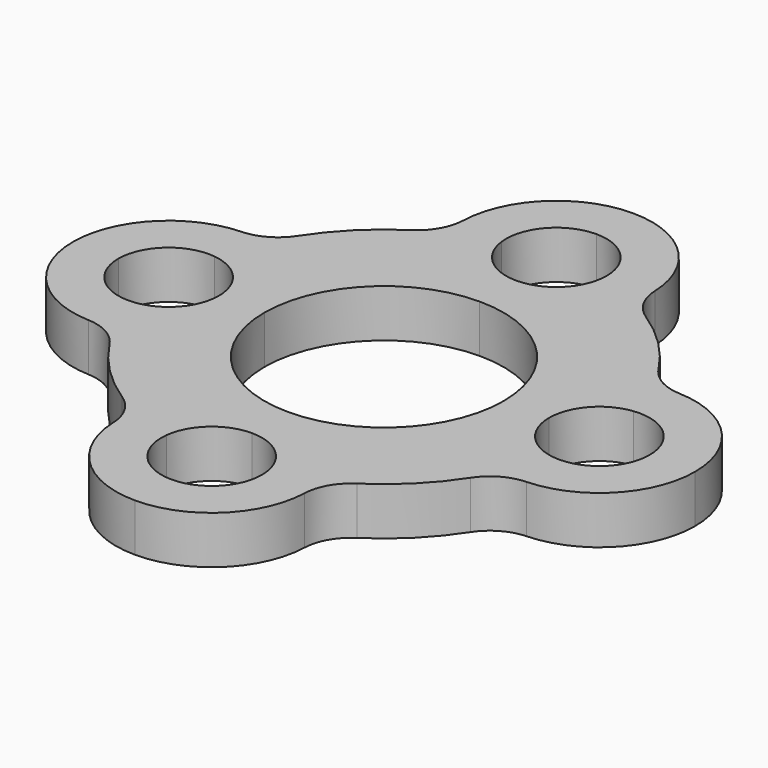
from build123d import *

# Parameters (mm, degrees)
F1_DEPTH = 1
F2_R     = 1


with BuildPart() as f1:
    # F0 (on Top) → F1 (new body)
    with BuildSketch(Plane.XY):
        with BuildLine():
            ThreePointArc((-2.5, 0), (-1.767766953, 1.767766953), (0, 2.5))
            ThreePointArc((0, 2.5), (-1.2472191289, 2.9365280801), (-1.9499920861, 4.0555555556))
            ThreePointArc((-1.9499920861, 4.0555555556), (-3.1819805153, 3.1819805153), (-4.0555555556, 1.9499920861))
            ThreePointArc((-4.0555555556, 1.9499920861), (-2.9365280801, 1.2472191289), (-2.5, 0))
        make_face()
        with BuildLine():
            Line((-3.45, 0), (-2.5, 0))
            ThreePointArc((-2.5, 0), (-2.9365280801, 1.2472191289), (-4.0555555556, 1.9499920861))
            ThreePointArc((-4.0555555556, 1.9499920861), (-4.2408539714, 1.5050440503), (-4.3775, 1.0428296841))
            ThreePointArc((-4.3775, 1.0428296841), (-3.715422088, 0.6978090713), (-3.45, 0))
        make_face()
        with BuildLine():
            ThreePointArc((-4.0555555556, -1.9499920861), (-2.9365280801, -1.2472191289), (-2.5, 0))
            Line((-2.5, 0), (-3.45, 0))
            ThreePointArc((-3.45, 0), (-3.715422088, -0.6978090713), (-4.3775, -1.0428296841))
            ThreePointArc((-4.3775, -1.0428296841), (-4.2408539714, -1.5050440503), (-4.0555555556, -1.9499920861))
        make_face()
        with BuildLine():
            ThreePointArc((-1.9499920861, -4.0555555556), (-1.2472191276, -2.936528079), (3.3e-09, -2.5))
            ThreePointArc((3.3e-09, -2.5), (-1.7677669518, -1.7677669542), (-2.5, 0))
            ThreePointArc((-2.5, 0), (-2.9365280801, -1.2472191289), (-4.0555555556, -1.9499920861))
            ThreePointArc((-4.0555555556, -1.9499920861), (-3.1819805153, -3.1819805153), (-1.9499920861, -4.0555555556))
        make_face()
        with BuildLine():
            ThreePointArc((4.0555555556, -1.9499920861), (2.9365280801, -1.2472191289), (2.5, 0))
            ThreePointArc((2.5, 0), (1.7677669542, -1.7677669518), (3.3e-09, -2.5))
            ThreePointArc((3.3e-09, -2.5), (1.2472191302, -2.9365280811), (1.9499920861, -4.0555555556))
            ThreePointArc((1.9499920861, -4.0555555556), (3.1819805153, -3.1819805153), (4.0555555556, -1.9499920861))
        make_face()
        with BuildLine():
            Line((3.45, 0), (2.5, 0))
            ThreePointArc((2.5, 0), (2.9365280801, -1.2472191289), (4.0555555556, -1.9499920861))
            ThreePointArc((4.0555555556, -1.9499920861), (4.2408539714, -1.5050440503), (4.3775, -1.0428296841))
            ThreePointArc((4.3775, -1.0428296841), (3.715422088, -0.6978090713), (3.45, 0))
        make_face()
        with BuildLine():
            ThreePointArc((4.0555555556, 1.9499920861), (2.9365280801, 1.2472191289), (2.5, 0))
            Line((2.5, 0), (3.45, 0))
            ThreePointArc((3.45, 0), (3.715422088, 0.6978090713), (4.3775, 1.0428296841))
            ThreePointArc((4.3775, 1.0428296841), (4.2408539714, 1.5050440503), (4.0555555556, 1.9499920861))
        make_face()
        with BuildLine():
            ThreePointArc((0, 2.5), (1.767766953, 1.767766953), (2.5, 0))
            ThreePointArc((2.5, 0), (2.9365280801, 1.2472191289), (4.0555555556, 1.9499920861))
            ThreePointArc((4.0555555556, 1.9499920861), (3.1819805153, 3.1819805153), (1.9499920861, 4.0555555556))
            ThreePointArc((1.9499920861, 4.0555555556), (1.2472191289, 2.9365280801), (0, 2.5))
        make_face()
        with BuildLine():
            Line((0, 3.45), (0, 2.5))
            ThreePointArc((0, 2.5), (1.2472191289, 2.9365280801), (1.9499920861, 4.0555555556))
            ThreePointArc((1.9499920861, 4.0555555556), (1.5050440503, 4.2408539714), (1.0428296841, 4.3775))
            ThreePointArc((1.0428296841, 4.3775), (0.6978090713, 3.715422088), (0, 3.45))
        make_face()
        with BuildLine():
            ThreePointArc((-1.9499920861, 4.0555555556), (-1.2472191289, 2.9365280801), (0, 2.5))
            Line((0, 2.5), (0, 3.45))
            ThreePointArc((0, 3.45), (-0.6978090713, 3.715422088), (-1.0428296841, 4.3775))
            ThreePointArc((-1.0428296841, 4.3775), (-1.5050440503, 4.2408539714), (-1.9499920861, 4.0555555556))
        make_face()
        with BuildLine():
            ThreePointArc((0, 6.5), (-1.5634719199, 5.7472191289), (-1.9499920861, 4.0555555556))
            ThreePointArc((-1.9499920861, 4.0555555556), (-1.5050440503, 4.2408539714), (-1.0428296841, 4.3775))
            ThreePointArc((-1.0428296841, 4.3775), (-0.784577912, 5.1978090713), (0, 5.55))
            Line((0, 5.55), (0, 6.5))
        make_face()
        with BuildLine():
            ThreePointArc((1.0428296841, 4.3775), (1.5050440503, 4.2408539714), (1.9499920861, 4.0555555556))
            ThreePointArc((1.9499920861, 4.0555555556), (1.9874587005, 4.2763755069), (2, 4.5))
            ThreePointArc((2, 4.5), (1.4142135624, 5.9142135624), (0, 6.5))
            Line((0, 6.5), (0, 5.55))
            ThreePointArc((0, 5.55), (0.7424621202, 5.2424621202), (1.05, 4.5))
            ThreePointArc((1.05, 4.5), (1.0482058882, 4.4386451644), (1.0428296841, 4.3775))
        make_face()
        with BuildLine():
            ThreePointArc((6.5, 0), (5.7472191289, 1.5634719199), (4.0555555556, 1.9499920861))
            ThreePointArc((4.0555555556, 1.9499920861), (4.2408539714, 1.5050440503), (4.3775, 1.0428296841))
            ThreePointArc((4.3775, 1.0428296841), (5.1978090713, 0.784577912), (5.55, 0))
            Line((5.55, 0), (6.5, 0))
        make_face()
        with BuildLine():
            ThreePointArc((4.3775, -1.0428296841), (4.2408539714, -1.5050440503), (4.0555555556, -1.9499920861))
            ThreePointArc((4.0555555556, -1.9499920861), (5.7472191289, -1.5634719199), (6.5, 0))
            Line((6.5, 0), (5.55, 0))
            ThreePointArc((5.55, 0), (5.1978090713, -0.784577912), (4.3775, -1.0428296841))
        make_face()
        with BuildLine():
            ThreePointArc((1.9499920861, -4.0555555556), (1.2472191302, -2.9365280811), (3.3e-09, -2.5))
            Line((0, -2.5), (0, -3.45))
            ThreePointArc((0, -3.45), (0.6978090713, -3.715422088), (1.0428296841, -4.3775))
            ThreePointArc((1.0428296841, -4.3775), (1.5050440503, -4.2408539714), (1.9499920861, -4.0555555556))
        make_face()
        with BuildLine():
            Line((0, -3.45), (0, -2.5))
            ThreePointArc((3.3e-09, -2.5), (-1.2472191276, -2.936528079), (-1.9499920861, -4.0555555556))
            ThreePointArc((-1.9499920861, -4.0555555556), (-1.5050440503, -4.2408539714), (-1.0428296841, -4.3775))
            ThreePointArc((-1.0428296841, -4.3775), (-0.6978090713, -3.715422088), (0, -3.45))
        make_face()
        with BuildLine():
            ThreePointArc((-1.0428296841, -4.3775), (-1.5050440503, -4.2408539714), (-1.9499920861, -4.0555555556))
            ThreePointArc((-1.9499920861, -4.0555555556), (-1.5634719204, -5.7472191284), (-1.3e-09, -6.5))
            Line((0, -6.5), (0, -5.55))
            ThreePointArc((0, -5.55), (-0.784577912, -5.1978090713), (-1.0428296841, -4.3775))
        make_face()
        with BuildLine():
            ThreePointArc((2, -4.5), (1.9874587005, -4.2763755069), (1.9499920861, -4.0555555556))
            ThreePointArc((1.9499920861, -4.0555555556), (1.5050440503, -4.2408539714), (1.0428296841, -4.3775))
            ThreePointArc((1.0428296841, -4.3775), (1.0482058882, -4.4386451644), (1.05, -4.5))
            ThreePointArc((1.05, -4.5), (0.7424621202, -5.2424621202), (0, -5.55))
            Line((0, -5.55), (0, -6.5))
            ThreePointArc((-1.3e-09, -6.5), (1.4142135619, -5.9142135628), (2, -4.5))
        make_face()
        with BuildLine():
            ThreePointArc((-6.5, 2.4e-09), (-5.7472191299, -1.5634719192), (-4.0555555556, -1.9499920861))
            ThreePointArc((-4.0555555556, -1.9499920861), (-4.2408539714, -1.5050440503), (-4.3775, -1.0428296841))
            ThreePointArc((-4.3775, -1.0428296841), (-5.1978090713, -0.784577912), (-5.55, 0))
            Line((-5.55, 0), (-6.5, 0))
        make_face()
        with BuildLine():
            ThreePointArc((-4.3775, 1.0428296841), (-4.2408539714, 1.5050440503), (-4.0555555556, 1.9499920861))
            ThreePointArc((-4.0555555556, 1.9499920861), (-5.747219128, 1.5634719207), (-6.5, 2.4e-09))
            Line((-6.5, 0), (-5.55, 0))
            ThreePointArc((-5.55, 0), (-5.1978090713, 0.784577912), (-4.3775, 1.0428296841))
        make_face()
    extrude(amount=F1_DEPTH)

    # F2
    f2_edges = [f1.edges().sort_by_distance(p)[0] for p in [
        (-4.055556, 1.949992, 0.5),
        (-1.949992, 4.055556, 0.5),
        (1.949992, 4.055556, 0.5),
        (4.055556, 1.949992, 0.5),
        (4.055556, -1.949992, 0.5),
        (1.949992, -4.055556, 0.5),
        (-1.949992, -4.055556, 0.5),
        (-4.055556, -1.949992, 0.5),
    ]]
    fillet(f2_edges, radius=F2_R)


solid = f1.part
